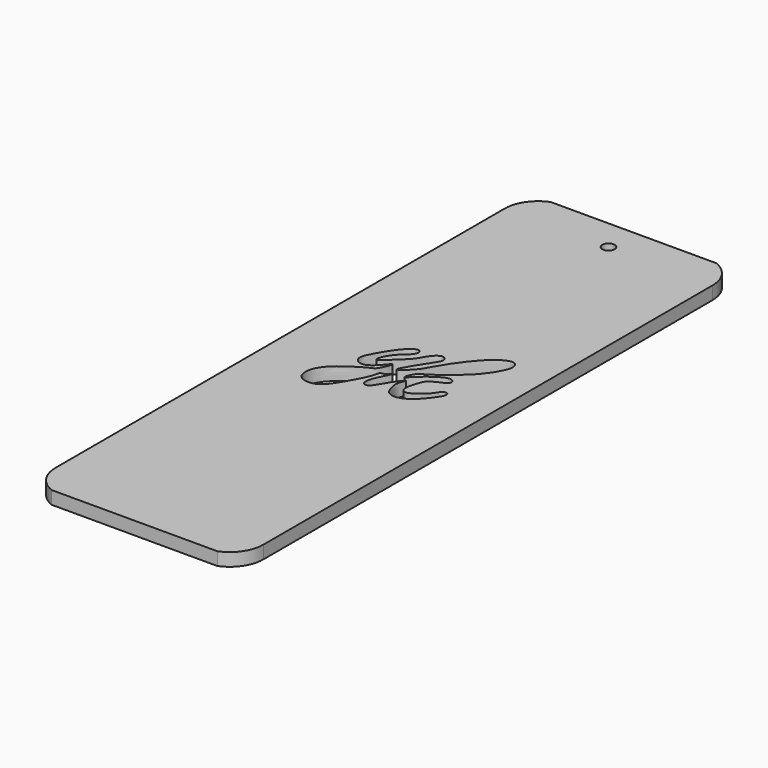
from build123d import *

# Parameters (mm, degrees)
F0_R     = 1.5
F1_DEPTH = 3.175


with BuildPart() as f1:
    # F0 (on Top) → F1 (new body)
    with BuildSketch(Plane.XY):
        with BuildLine():
            Line((17.6695419228, 107.9760200334), (-22.8258855641, 107.9760200334))
            ThreePointArc((-22.8258855641, 107.9760200334), (-26.5692156748, 104.9552170739), (-27.9781718206, 100.3560200334))
            Line((-27.9781718206, 100.3560200334), (-27.9781718206, -36.8039799666))
            ThreePointArc((-27.9781718206, -36.8039799666), (-26.5692156748, -41.4031770071), (-22.8258855641, -44.4239799666))
            Line((-22.8258855641, -44.4239799666), (17.6695419228, -44.4239799666))
            ThreePointArc((17.6695419228, -44.4239799666), (21.4128720336, -41.4031770071), (22.8218281794, -36.8039799666))
            Line((22.8218281794, -36.8039799666), (22.8218281794, 100.3560200334))
            ThreePointArc((22.8218281794, 100.3560200334), (21.4128720336, 104.9552170739), (17.6695419228, 107.9760200334))
        make_face()
        with Locations((-2.5781718206, 100.3560200334)):
            Circle(F0_R, mode=Mode.SUBTRACT)
        with BuildLine():
            add(Edge.make_bspline(
                [(-8.1405346957, 37.3379977812), (-7.8788757725, 38.2794930914), (-6.3577719443, 40.6988803074), (-3.5336621015, 42.5815774523), (-3.5862726693, 44.3710420735), (-5.0657042704, 44.7222611086), (-7.8339448327, 41.9306456904), (-9.9507173278, 38.1758392794), (-11.0912505537, 36.0814655624), (-11.2745330437, 34.0756736906), (-8.7719213301, 32.5514955368), (-5.9270341613, 35.0743186623), (-3.8744896688, 38.0205915883), (-5.5738776862, 33.3000612348), (-6.9702109385, 33.1054067326), (-10.4994194741, 30.8692294587), (-13.1796160822, 28.9026351671), (-15.258767067, 26.3120587096), (-15.6884713161, 23.6803694365), (-14.9999353959, 21.5932432014), (-12.8104906959, 20.8427907976), (-9.77882753, 21.3009773256), (-7.1218150369, 25.5654982663), (-4.3682893631, 30.5663455714), (-4.2156504859, 32.8504287915), (-3.5121368745, 32.2298482141), (-1.0093730295, 34.9916260243), (-3.6766993338, 30.3734510969), (-4.1574744536, 28.3092663544), (-4.0327548182, 27.0492505481), (-2.4212798097, 26.6350334238), (-1.0657830306, 29.4364339172), (0.6632532862, 32.0131517614), (2.1882362092, 33.5817587412), (0.9496887186, 31.5380263998), (1.2306413216, 29.147771791), (2.1486821151, 26.9679385283), (4.1588672957, 26.390924565), (6.5176407866, 27.0980346838), (8.8573627755, 29.076171593), (10.6234443039, 31.5401649519), (11.5591965843, 32.9850273345), (11.3139077348, 34.0529356742), (9.9240996361, 34.0405023917), (9.1424239592, 32.1444856807), (7.0033395811, 30.4464686273), (5.5638827364, 29.4090804308), (4.4014628538, 29.1913817965), (3.2649003183, 30.0396371883), (3.8485128018, 32.6991480897), (4.4736009127, 34.3964770785), (5.0088603612, 35.4686291717), (7.2136429385, 36.644682752), (9.1652458045, 37.3327520268), (8.7793071634, 38.8373841294), (7.2580149948, 39.0984891286), (4.9201625888, 37.6620809608), (2.4169271568, 35.8898251918), (0.0142318074, 32.969573043), (1.2182347715, 36.4789204448), (2.8542539181, 37.3259244898), (4.403753765, 38.2596693572), (7.5830440914, 40.9209232926), (10.5566072815, 43.1891368635), (13.5983707383, 47.5214541147), (14.5052339564, 50.3326909365), (13.32138127, 52.2147006098), (10.4711211059, 51.2431923137), (6.9666548718, 48.1562903753), (2.6138370339, 41.9974721932), (1.0361044104, 38.3515045785), (-1.7796122762, 35.8234135803), (-3.3580995641, 35.2052445627), (1.3258622292, 42.469241796), (2.4205253064, 44.0787233391), (1.0927251507, 45.8096702551), (-1.2426787363, 44.060565408), (-2.2942044109, 41.2973014955), (-4.953085428, 38.9272401695), (-6.887731449, 36.9815111057), (-8.271433699, 36.0290982993), (-8.2735591053, 36.8593523132), (-8.1405346957, 37.3379977812)],
                knots=[0, 0, 0, 0, 0.0155978093, 0.030405501, 0.0395323238, 0.0476722728, 0.0632447762, 0.0804292094, 0.092806794, 0.1033501102, 0.1152137696, 0.1311159162, 0.1421213177, 0.156572925, 0.1666268539, 0.1826441624, 0.1978407884, 0.2122274724, 0.2251616193, 0.2364232954, 0.2480228939, 0.2612961904, 0.2792533815, 0.2991375175, 0.3092916572, 0.3150305832, 0.3261720072, 0.340885439, 0.3539058589, 0.3619260957, 0.3704172201, 0.3839597565, 0.3992771566, 0.4080223114, 0.4176640161, 0.43070074, 0.4426447177, 0.4535512295, 0.4659246921, 0.4800977849, 0.4942908865, 0.5046341242, 0.5118891068, 0.5198991324, 0.5310713889, 0.5445456619, 0.5552881202, 0.5635438618, 0.5719779709, 0.5849128107, 0.5959198327, 0.6044078508, 0.6171975518, 0.6281900356, 0.6364614717, 0.6455221003, 0.65858148, 0.6739374048, 0.6858694611, 0.6978413437, 0.7091364671, 0.7198422107, 0.7359847154, 0.7520872682, 0.7705524403, 0.7840603655, 0.7942770651, 0.8068672249, 0.8246399729, 0.8467045416, 0.8633409255, 0.8787892948, 0.8845821647, 0.9067677147, 0.9187339294, 0.9281640894, 0.9404793047, 0.954588253, 0.9697665504, 0.9835900706, 0.9920702518, 1, 1, 1, 1], degree=3))
        make_face(mode=Mode.SUBTRACT)
    extrude(amount=F1_DEPTH)


solid = f1.part
